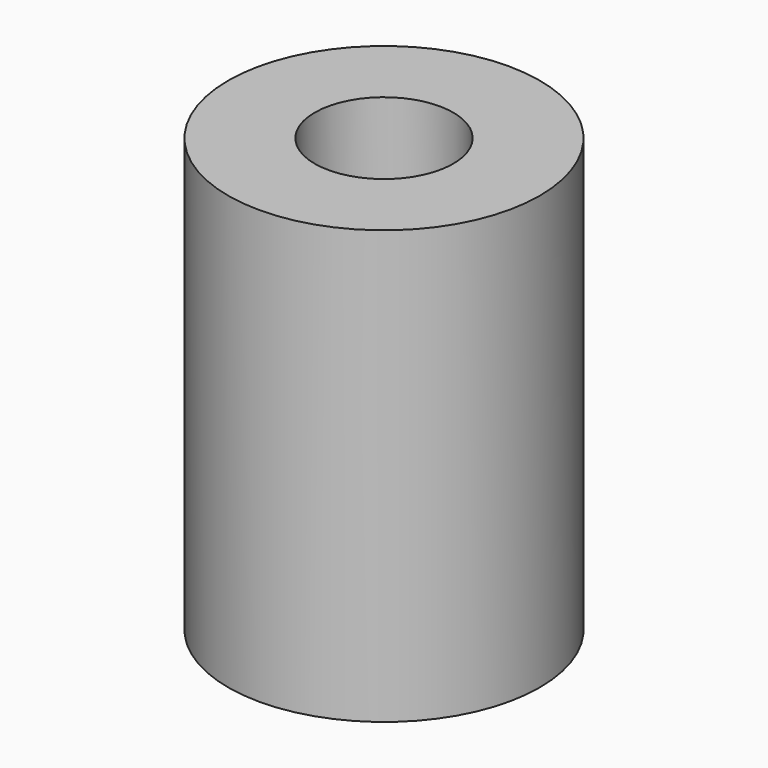
from build123d import *

# Parameters (mm, degrees)
SKETCH045_R              = 9
PAD027_DEPTH             = 25
SKETCH046_R              = 2.5
POCKET021_DEPTH          = 6
SKETCH047_R              = 4
POCKET022_DEPTH          = 6
CLONE040_PLACEMENT_ANGLE = 180


with BuildPart() as part:
    # Sketch045 → Pad027 (new body)
    with BuildSketch(Plane.XY):
        Circle(SKETCH045_R)
    extrude(amount=PAD027_DEPTH)

    # Sketch046 (on Face3 of Pad027) → Pocket021 (cut)
    with BuildSketch(Plane.XY.offset(25)):
        Circle(SKETCH046_R)
    extrude(amount=-POCKET021_DEPTH, mode=Mode.SUBTRACT)

    # Sketch047 (on Face2 of Pocket021) → Pocket022 (cut)
    with BuildSketch(Plane(origin=(0, 0, 0), x_dir=(1, 0, 0), z_dir=(0, 0, -1))):
        Circle(SKETCH047_R)
    extrude(amount=-POCKET022_DEPTH, mode=Mode.SUBTRACT)


with BuildPart() as part_1:
    # Clone040 placement: moved
    add(part.part.moved(Location((-310, -25, 82))).rotate(Axis((-310, -25, 82), (0, 1, 0)), CLONE040_PLACEMENT_ANGLE))


with BuildPart() as part_2:
    # Clone041 placement: moved
    add(part_1.part.moved(Location((0.15, -358, 2))))


solid = part_2.part
